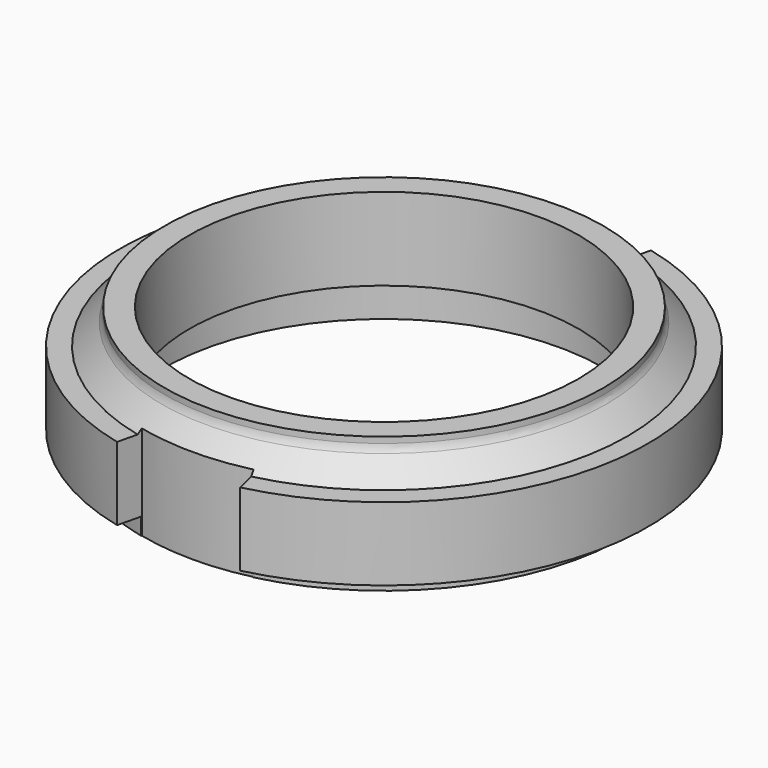
from build123d import *

# Parameters (mm, degrees)
F2_R     = 0.79502
F4_DEPTH = 9.653
F5_R     = 0.79502


with BuildPart() as f1:
    # F0 (on Front) → F1 (revolve)
    with BuildSketch(Plane.XZ):
        Polygon((16.9545, 9.652), (15.0368, 9.652), (15.0368, 3.2766), (16.9672, 3.2766), (16.9672, 0), (18.5547, 0), (18.5547, 1.3208), (20.3962, 1.3208), (20.3962, 6.985), (18.82648, 6.985), (16.9545, 8.85698), align=None)
    revolve(axis=Axis((0, 0, 4.540607), (0, 0, -1)))

    # F2
    f2_edges = [f1.edges().sort_by_distance(p)[0] for p in [
        (-16.9672, 0, 3.2766),
    ]]
    fillet(f2_edges, radius=F2_R)

    # F3 (on face) → F4 (cut, through all)
    with BuildSketch(Plane.XY.offset(9.652)):
        with BuildLine():
            Line((-4.75958, 19.833088), (-4.318, 17.993032))
            ThreePointArc((-4.318, 17.993032), (0, 18.5039), (4.318, 17.993032))
            Line((4.318, 17.993032), (4.75958, 19.833088))
            ThreePointArc((4.75958, 19.833088), (0, 20.3962), (-4.75958, 19.833088))
        make_face()
        with BuildLine():
            ThreePointArc((4.318, -17.993032), (0, -18.5039), (-4.318, -17.993032))
            Line((-4.318, -17.993032), (-4.75958, -19.833088))
            ThreePointArc((-4.75958, -19.833088), (0, -20.3962), (4.75958, -19.833088))
            Line((4.75958, -19.833088), (4.318, -17.993032))
        make_face()
    extrude(amount=-F4_DEPTH, mode=Mode.SUBTRACT)

    # F5
    f5_edges = [f1.edges().sort_by_distance(p)[0] for p in [
        (-16.9545, 0, 8.85698),
    ]]
    fillet(f5_edges, radius=F5_R)


solid = f1.part
